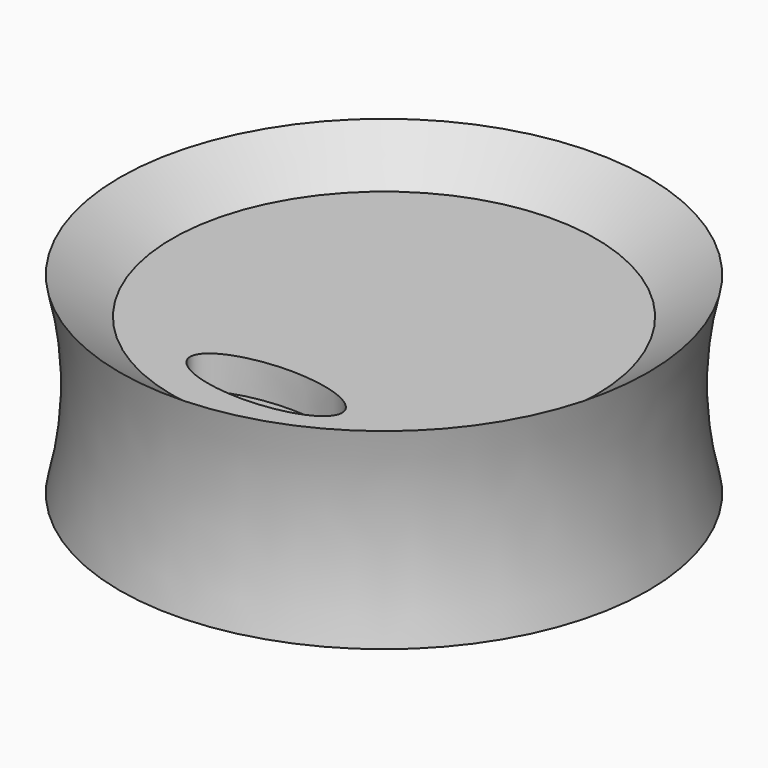
from build123d import *

# Parameters (mm, degrees)
F3_DEPTH = 5.08


with BuildPart() as f1:
    # F0 (on Front) → F1 (revolve)
    with BuildSketch(Plane.XZ):
        with BuildLine():
            ThreePointArc((39.601862, -14.266361), (37.817378, 0.128719), (39.601862, 14.523798))
            Line((39.601862, 14.523798), (31.75, 9.004717))
            Line((31.75, 9.004717), (0, 9.004717))
            Line((0, 9.004717), (0, 3.770143))
            Line((0, 3.770143), (31.75, 3.770143))
            Line((31.75, 3.770143), (31.75, -14.266361))
            Line((31.75, -14.266361), (39.601862, -14.266361))
        make_face()
    revolve(axis=Axis((0, 0, 0.128719), (0, 0, -1)))

    # F2 (on face) → F3 (cut)
    with BuildSketch(Plane.XY.offset(9.004717)):
        with BuildLine():
            add(Edge.make_bspline(
                [(11.387902, -22.085052), (11.387902, -14.192679), (-5.693951, -18.138866), (-22.775805, -22.085052), (-5.693951, -26.031238), (11.387902, -29.977425), (11.387902, -22.085052)],
                knots=[0, 0, 0, 2.094395, 2.094395, 4.18879, 4.18879, 6.283185, 6.283185, 6.283185], degree=2, weights=[1, 0.5, 1, 0.5, 1, 0.5, 1]))
        make_face()
    extrude(amount=-F3_DEPTH, mode=Mode.SUBTRACT)


solid = f1.part
